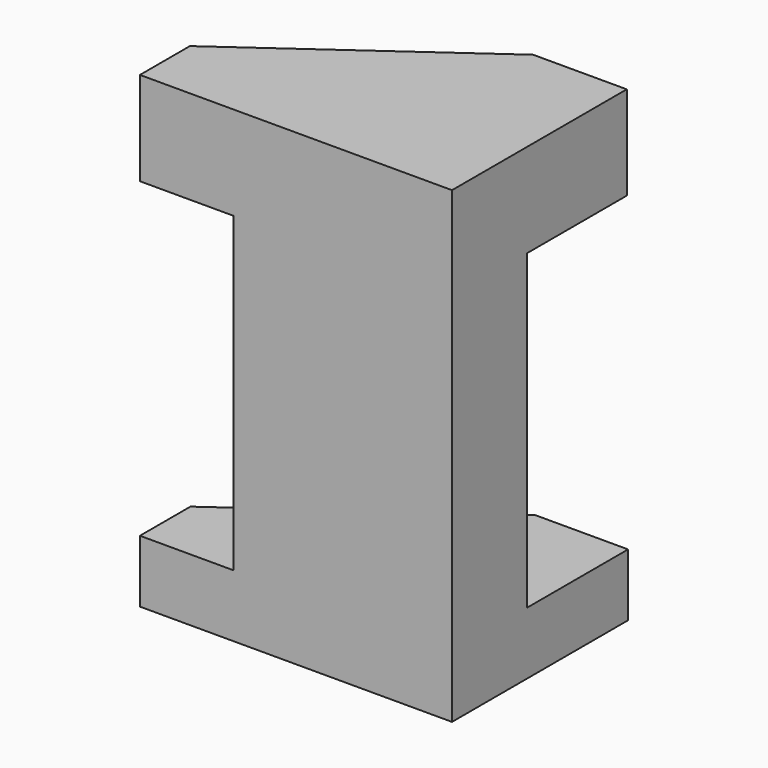
from build123d import *

# Parameters (mm, degrees)
F1_DEPTH = 19.05
F2_W     = 44.45
F2_H     = 63.5
F3_DEPTH = 19.05
F4_W     = 44.45
F4_H     = 19.05
F5_DEPTH = 12.7


with BuildPart() as f1:
    # F0 (on Top) → F1 (new body)
    with BuildSketch(Plane.XY):
        Polygon((0, 12.7), (0, 0), (63.5, 0), (63.5, 44.45), (44.45, 44.45), align=None)
        Polygon((0, 12.7), (0, 0), (63.5, 0), (63.5, 44.45), (44.45, 44.45), align=None)
    extrude(amount=F1_DEPTH)

    # F2 (on Front) → F3 (join)
    with BuildSketch(Plane.XZ):
        with Locations((41.275, -31.75)):
            Rectangle(F2_W, F2_H)
    extrude(amount=-F3_DEPTH)

    # F4 (on face) → F5 (join)
    with BuildSketch(Plane(origin=(0, 0, -63.5), x_dir=(1, 0, 0), z_dir=(0, 0, -1))):
        Polygon((19.05, 0), (0, 0), (0, -12.8343682736), (44.5106774569, -44.7837524116), (63.5, -44.7837524116), (63.5, -19.05), (19.05, -19.05), align=None)
        with Locations((41.275, -9.525)):
            Rectangle(F4_W, F4_H)
    extrude(amount=F5_DEPTH)


solid = f1.part
